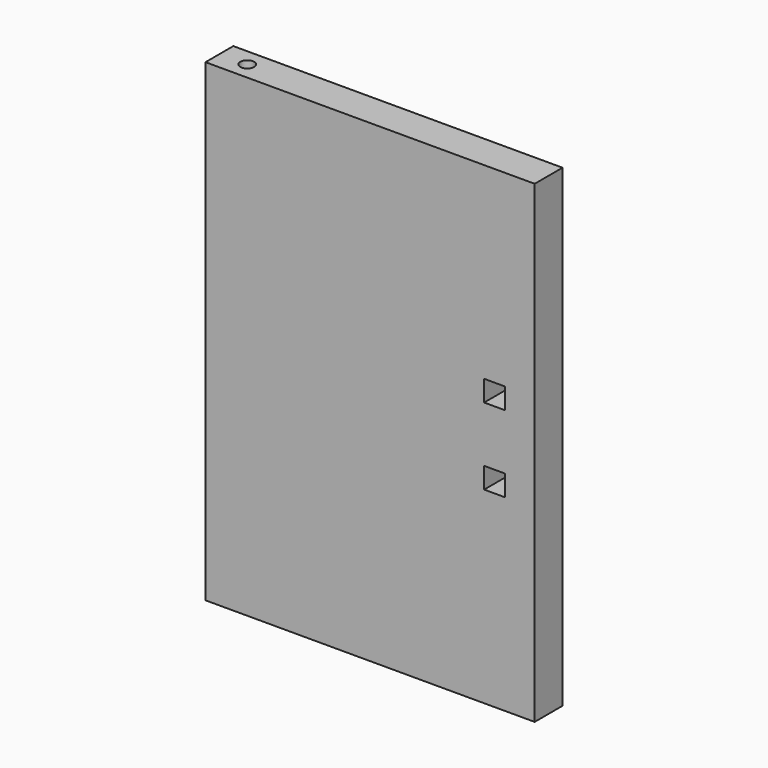
from build123d import *

# Parameters (mm, degrees)
F0_W     = 60.0075
F0_H     = 86.36
F0_W_2   = 3.81
F0_H_2   = 3.81
F1_DEPTH = 6.35
F2_R     = 1.27
F3_DEPTH = 86.361


with BuildPart() as f1:
    # F0 (on Front) → F1 (new body)
    with BuildSketch(Plane.XZ):
        with Locations((30.00375, 43.18)):
            Rectangle(F0_W, F0_H)
        with Locations((52.705, 36.195)):
            Rectangle(F0_W_2, F0_H_2, mode=Mode.SUBTRACT)
        with Locations((52.705, 50.165)):
            Rectangle(F0_W_2, F0_H_2, mode=Mode.SUBTRACT)
    extrude(amount=F1_DEPTH)

    # F2 (on Top) → F3 (cut, through all)
    with BuildSketch(Plane.XY):
        with Locations((5.08, -3.175)):
            Circle(F2_R)
    extrude(amount=F3_DEPTH, mode=Mode.SUBTRACT)


solid = f1.part
